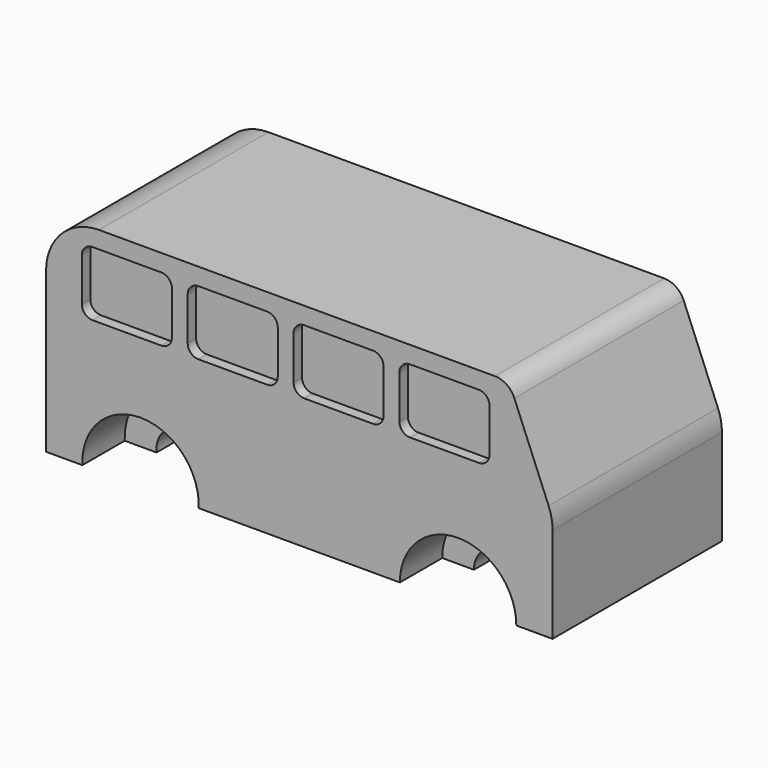
from build123d import *

# Parameters (mm, degrees)
F1_DEPTH = 25.4
F3_DEPTH = 2.54
F4_R     = 13.97
F5_DEPTH = 12.7


with BuildPart() as f1:
    # F0 (on Front) → F1 (new body)
    with BuildSketch(Plane.XZ):
        with BuildLine():
            ThreePointArc((51.606199, 22.347435), (49.735838, 24.639444), (46.905716, 25.500817))
            Line((46.905716, 25.500817), (-48.065889, 25.500817))
            ThreePointArc((-48.065889, 25.500817), (-57.046145, 21.781073), (-60.765889, 12.800817))
            Line((-60.765889, 12.800817), (-60.765889, -25.500817))
            Line((-60.765889, -25.500817), (-44.420032, -25.500817))
            ThreePointArc((-44.420032, -25.500817), (-38.1, -18.534626), (-31.779968, -25.500817))
            Line((-31.779968, -25.500817), (31.75, -25.500817))
            ThreePointArc((31.75, -25.500817), (38.1, -19.150817), (44.45, -25.500817))
            Line((44.45, -25.500817), (60.765889, -25.500817))
            Line((60.765889, -25.500817), (60.765889, -2.501722))
            ThreePointArc((60.765889, -2.501722), (60.526433, -0.047169), (59.817097, 2.314823))
            Line((59.817097, 2.314823), (51.606199, 22.347435))
        make_face()
    extrude(amount=F1_DEPTH)

    # F2 (on face) → F3 (cut)
    with BuildSketch(Plane.XZ.offset(25.4)):
        with BuildLine():
            Line((43.092143, 21.37755), (26.558064, 21.37755))
            ThreePointArc((26.558064, 21.37755), (24.762013, 20.633602), (24.018064, 18.83755))
            Line((24.018064, 18.83755), (24.018064, 8.465382))
            ThreePointArc((24.018064, 8.465382), (24.762013, 6.669331), (26.558064, 5.925382))
            Line((26.558064, 5.925382), (43.092143, 5.925382))
            ThreePointArc((43.092143, 5.925382), (44.888194, 6.669331), (45.632143, 8.465382))
            Line((45.632143, 8.465382), (45.632143, 18.83755))
            ThreePointArc((45.632143, 18.83755), (44.888194, 20.633602), (43.092143, 21.37755))
        make_face()
        with BuildLine():
            Line((20.232143, 8.465382), (20.232143, 18.83755))
            ThreePointArc((20.232143, 18.83755), (19.488194, 20.633602), (17.692143, 21.37755))
            Line((17.692143, 21.37755), (1.158064, 21.37755))
            ThreePointArc((1.158064, 21.37755), (-0.637987, 20.633602), (-1.381936, 18.83755))
            Line((-1.381936, 18.83755), (-1.381936, 8.465382))
            ThreePointArc((-1.381936, 8.465382), (-0.637987, 6.669331), (1.158064, 5.925382))
            Line((1.158064, 5.925382), (17.692143, 5.925382))
            ThreePointArc((17.692143, 5.925382), (19.488194, 6.669331), (20.232143, 8.465382))
        make_face()
        with BuildLine():
            Line((-5.167857, 8.465382), (-5.167857, 18.83755))
            ThreePointArc((-5.167857, 18.83755), (-5.911806, 20.633602), (-7.707857, 21.37755))
            Line((-7.707857, 21.37755), (-24.241936, 21.37755))
            ThreePointArc((-24.241936, 21.37755), (-26.037987, 20.633602), (-26.781936, 18.83755))
            Line((-26.781936, 18.83755), (-26.781936, 8.465382))
            ThreePointArc((-26.781936, 8.465382), (-26.037987, 6.669331), (-24.241936, 5.925382))
            Line((-24.241936, 5.925382), (-7.707857, 5.925382))
            ThreePointArc((-7.707857, 5.925382), (-5.911806, 6.669331), (-5.167857, 8.465382))
        make_face()
        with BuildLine():
            Line((-30.567857, 8.465382), (-30.567857, 18.83755))
            ThreePointArc((-30.567857, 18.83755), (-31.311806, 20.633602), (-33.107857, 21.37755))
            Line((-33.107857, 21.37755), (-49.641936, 21.37755))
            ThreePointArc((-49.641936, 21.37755), (-51.437987, 20.633602), (-52.181936, 18.83755))
            Line((-52.181936, 18.83755), (-52.181936, 8.465382))
            ThreePointArc((-52.181936, 8.465382), (-51.437987, 6.669331), (-49.641936, 5.925382))
            Line((-49.641936, 5.925382), (-33.107857, 5.925382))
            ThreePointArc((-33.107857, 5.925382), (-31.311806, 6.669331), (-30.567857, 8.465382))
        make_face()
    extrude(amount=-F3_DEPTH, mode=Mode.SUBTRACT)

    # F4 (on face) → F5 (cut)
    with BuildSketch(Plane.XZ.offset(25.4)):
        with Locations((-38.1, -24.884626)):
            Circle(F4_R)
        with Locations((38.1, -25.500817)):
            Circle(F4_R)
    extrude(amount=-F5_DEPTH, mode=Mode.SUBTRACT)

    # F6: F1 across plane


with BuildPart() as f1_1:
    add(f1.part)
    add(f1.part.mirror(Plane.XZ))


solid = f1_1.part
